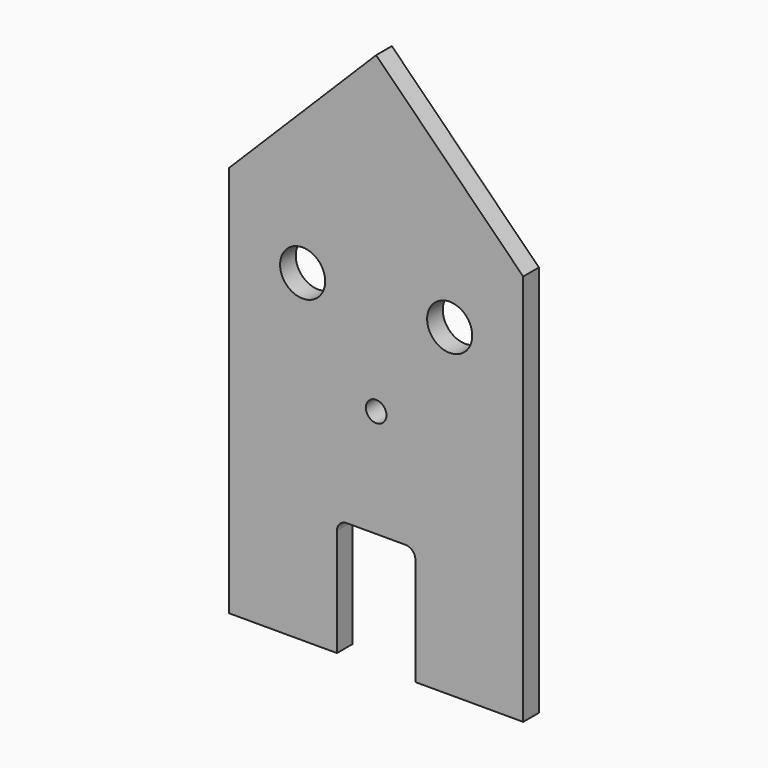
from build123d import *

# Parameters (mm, degrees)
F0_R     = 11.5
F1_DEPTH = 10
F2_R     = 5
F3_R     = 5.25
F4_DEPTH = 10.001


with BuildPart() as f1:
    # F0 (on Front) → F1 (new body)
    with BuildSketch(Plane.XZ):
        Polygon((75, -100), (75, 100), (0, 100), (-75, 100), (-75, -100), (-20, -100), (-20, -40), (20, -40), (20, -100), align=None)
        with Locations((-37.5, 65)):
            Circle(F0_R, mode=Mode.SUBTRACT)
        with Locations((37.5, 65)):
            Circle(F0_R, mode=Mode.SUBTRACT)
        Polygon((0, 100), (75, 100), (0, 175), align=None)
        Polygon((-75, 100), (0, 100), (0, 175), align=None)
    extrude(amount=F1_DEPTH)

    # F2
    f2_edges = [f1.edges().sort_by_distance(p)[0] for p in [
        (-20, -5, -40),
        (20, -5, -40),
    ]]
    fillet(f2_edges, radius=F2_R)

    # F3 (on face) → F4 (cut, through all)
    with BuildSketch(Plane(origin=(0, 0, 0), x_dir=(-1, 0, 0), z_dir=(0, 1, 0))):
        with Locations((0, 15)):
            Circle(F3_R)
    extrude(amount=-F4_DEPTH, mode=Mode.SUBTRACT)


solid = f1.part
